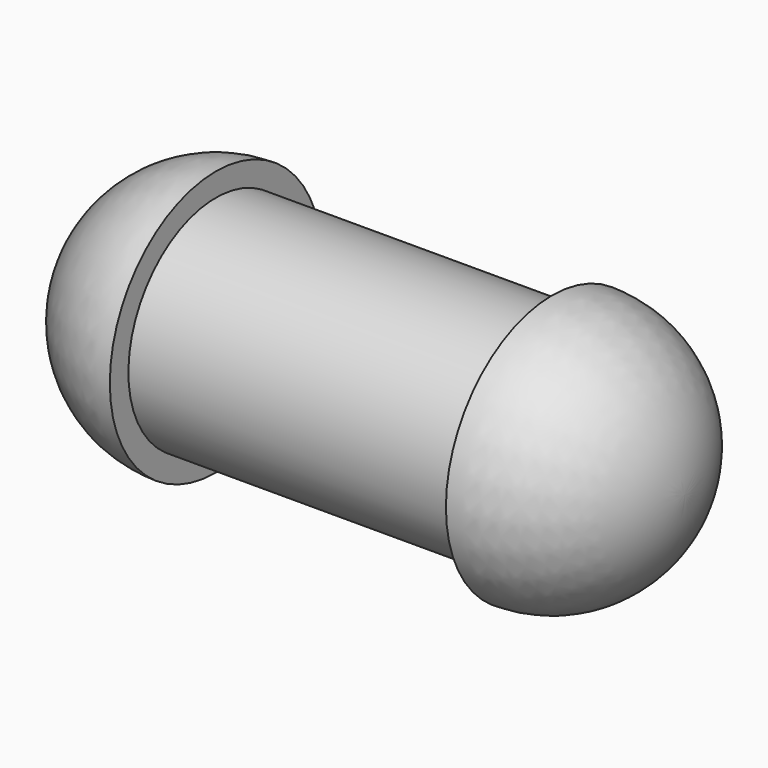
from build123d import *

# Parameters (mm, degrees)
F0_W = 15.2
F0_H = 4.95


with BuildPart() as f1:
    # F0 (on Front) → F1 (revolve)
    with BuildSketch(Plane.XZ):
        with Locations((0, -2.475)):
            Rectangle(F0_W, F0_H)
        with BuildLine():
            Line((7.6, 0), (7.6, -4.95))
            Line((7.6, -4.95), (7.6, -6))
            ThreePointArc((7.6, -6), (11.842641, -4.242641), (13.6, 0))
            Line((13.6, 0), (7.6, 0))
        make_face()
        with BuildLine():
            Line((-7.6, -6), (-7.6, -4.95))
            Line((-7.6, -4.95), (-7.6, 0))
            Line((-7.6, 0), (-13.6, 0))
            ThreePointArc((-13.6, 0), (-11.842641, -4.242641), (-7.6, -6))
        make_face()
    revolve(axis=Axis((0, 0, 0), (1, 0, 0)))


solid = f1.part
